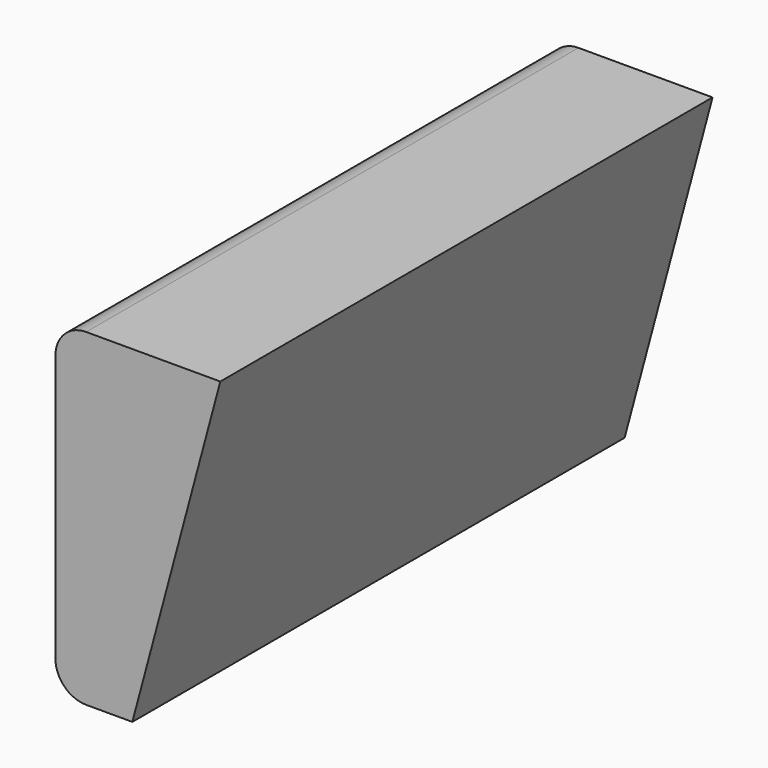
from build123d import *

# Parameters (mm, degrees)
F1_DEPTH = 40
F2_W     = 5
F2_H     = 18.6602540378
F3_DEPTH = 40.001
F4_R     = 2


with BuildPart() as f1:
    # F0 (on Front) → F1 (new body)
    with BuildSketch(Plane.XZ):
        Polygon((10.7179676972, 0), (0, 0), (0, -40), align=None)
    extrude(amount=F1_DEPTH)

    # F2 (on face) → F3 (cut, through all)
    with BuildSketch(Plane.XZ.offset(40)):
        with Locations((2.5, -30.6698729811)):
            Rectangle(F2_W, F2_H)
    extrude(amount=-F3_DEPTH, mode=Mode.SUBTRACT)

    # F4
    f4_edges = [f1.edges().sort_by_distance(p)[0] for p in [
        (0, -20, 0),
        (0, -20, -21.339746),
    ]]
    fillet(f4_edges, radius=F4_R)


solid = f1.part
